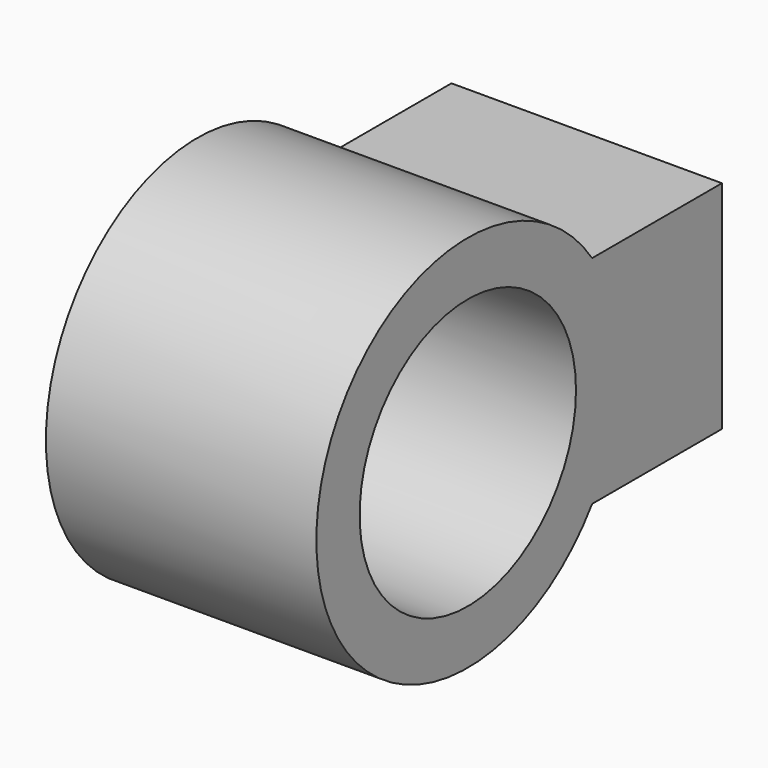
from build123d import *

# Parameters (mm, degrees)
F0_R     = 10
F1_DEPTH = 20
F2_R     = 6
F3_DEPTH = 10


with BuildPart() as f1:
    # F0 (on Right) → F1 (new body)
    with BuildSketch(Plane.YZ):
        with BuildLine():
            Line((23.489125, 8), (11.489125, 8))
            ThreePointArc((11.489125, 8), (-14, 0), (11.489125, -8))
            Line((11.489125, -8), (23.489125, -8))
            Line((23.489125, -8), (23.489125, 8))
        make_face()
        Circle(F0_R, mode=Mode.SUBTRACT)
    extrude(amount=F1_DEPTH)

    # F2 (on face) → F3 (cut)
    with BuildSketch(Plane(origin=(0, 23.489125, 0), x_dir=(-1, 0, 0), z_dir=(0, 1, 0))):
        with Locations((-10, 0)):
            Circle(F2_R)
    extrude(amount=-F3_DEPTH, mode=Mode.SUBTRACT)


solid = f1.part
